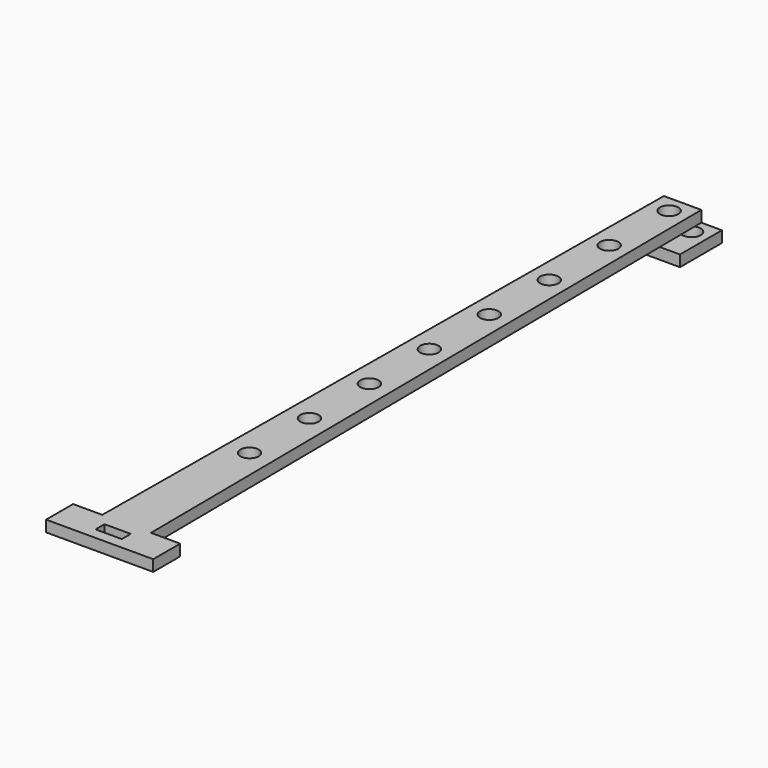
from build123d import *

# Parameters (mm, degrees)
F0_R     = 2.45
F1_DEPTH = 3
F2_R     = 2.45
F2_W     = 7.8
F2_H     = 9
F3_DEPTH = 3


with BuildPart() as f1:
    # F0 (on Top) → F1 (new body)
    with BuildSketch(Plane.XY):
        Polygon((7.5, 0), (0, 0), (0, -5), (15, -5), (15, 0), align=None)
        Polygon((0, 9), (0, 0), (7.5, 0), (15, 0), (15, 9), (7.5, 9), align=None)
        with Locations((4.5, 4.5)):
            Circle(F0_R, mode=Mode.SUBTRACT)
        with Locations((10.5, 4.5)):
            Circle(F0_R, mode=Mode.SUBTRACT)
    extrude(amount=F1_DEPTH)


with BuildPart() as f3:
    # F2 (on face) → F3 (new body)
    with BuildSketch(Plane.XY.offset(3)):
        Polygon((4.5, 9), (0, 9), (-0.5, 9), (-0.5, 0), (0, 0), (4.5, 0), (9, 0), (9.5, 0), (9.5, 9), (9, 9), align=None)
        with Locations((4.5, 4.5)):
            Circle(F2_R, mode=Mode.SUBTRACT)
        Polygon((-0.5, 0), (-0.5, 9), (-2, -176.5), (4.5, -176.5), (11, -176.5), (9.5, 9), (9.5, 0), (9, 0), (4.5, 0), (0, 0), align=None)
        with Locations((4.5, -135.5)):
            Circle(F2_R, mode=Mode.SUBTRACT)
        with Locations((4.5, -115.5)):
            Circle(F2_R, mode=Mode.SUBTRACT)
        with Locations((4.5, -95.5)):
            Circle(F2_R, mode=Mode.SUBTRACT)
        with Locations((4.5, -75.5)):
            Circle(F2_R, mode=Mode.SUBTRACT)
        with Locations((4.5, -55.5)):
            Circle(F2_R, mode=Mode.SUBTRACT)
        with Locations((4.5, -35.5)):
            Circle(F2_R, mode=Mode.SUBTRACT)
        with Locations((4.5, -15.5)):
            Circle(F2_R, mode=Mode.SUBTRACT)
        Polygon((4.5, -176.5), (-2, -176.5), (-2, -185.5), (-0.5, -185.5), (4.5, -185.5), (4.5, -182.5), (1, -182.5), (1, -179.5), (4.5, -179.5), align=None)
        with Locations((-5.9, -181)):
            Rectangle(F2_W, F2_H)
        Polygon((11, -176.5), (4.5, -176.5), (4.5, -179.5), (8, -179.5), (8, -182.5), (4.5, -182.5), (4.5, -185.5), (9.5, -185.5), (11, -185.5), align=None)
        with Locations((14.9, -181)):
            Rectangle(F2_W, F2_H)
    extrude(amount=F3_DEPTH)


solid = Compound([f1.part, f3.part])
